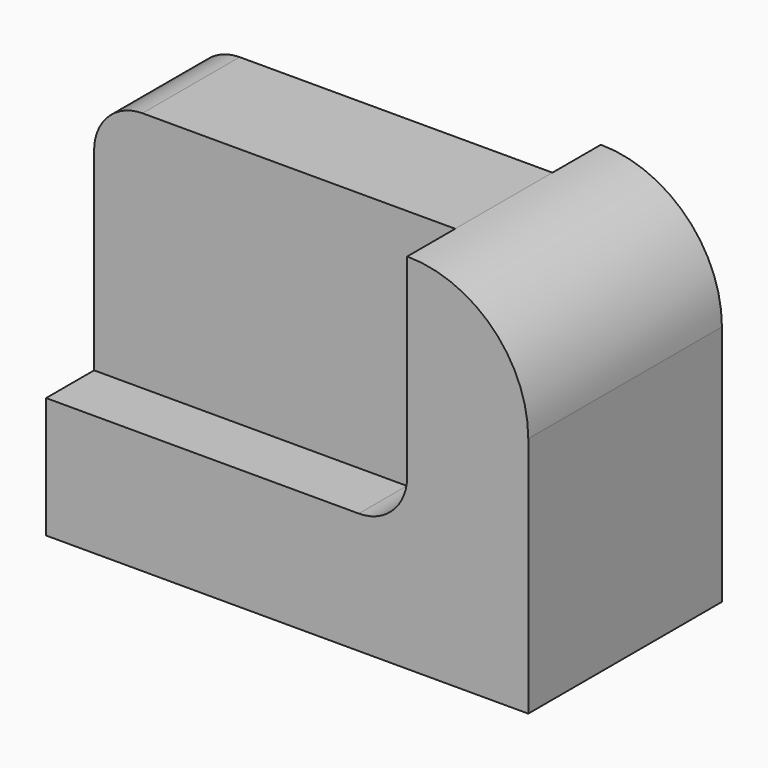
from build123d import *

# Parameters (mm, degrees)
F1_DEPTH = 25.4
F2_W     = 37.8928769708
F2_H     = 6.35
F2_H_2   = 6.2968162
F3_DEPTH = 25.4
F4_R     = 5.08


with BuildPart() as f1:
    # F0 (on Front) → F1 (new body)
    with BuildSketch(Plane.XZ):
        with BuildLine():
            Line((-50.5928769708, 0), (0, 0))
            Line((0, 0), (0, 25.4))
            ThreePointArc((0, 25.4), (-3.7197438789, 34.3802561211), (-12.7, 38.1))
            Line((-12.7, 38.1), (-50.5928769708, 38.1))
            Line((-50.5928769708, 38.1), (-50.5928769708, 0))
        make_face()
    extrude(amount=F1_DEPTH)

    # F2 (on face) → F3 (cut)
    with BuildSketch(Plane.XY.offset(38.1)):
        with Locations((-31.6464384854, -3.175)):
            Rectangle(F2_W, F2_H)
        with Locations((-31.6464384854, -22.2515919)):
            Rectangle(F2_W, F2_H_2)
    extrude(amount=-F3_DEPTH, mode=Mode.SUBTRACT)

    # F4
    f4_edges = [f1.edges().sort_by_distance(p)[0] for p in [
        (-12.7, -22.251592, 12.7),
        (-12.7, -3.175, 12.7),
        (-50.592877, -12.726592, 38.1),
    ]]
    fillet(f4_edges, radius=F4_R)


solid = f1.part
